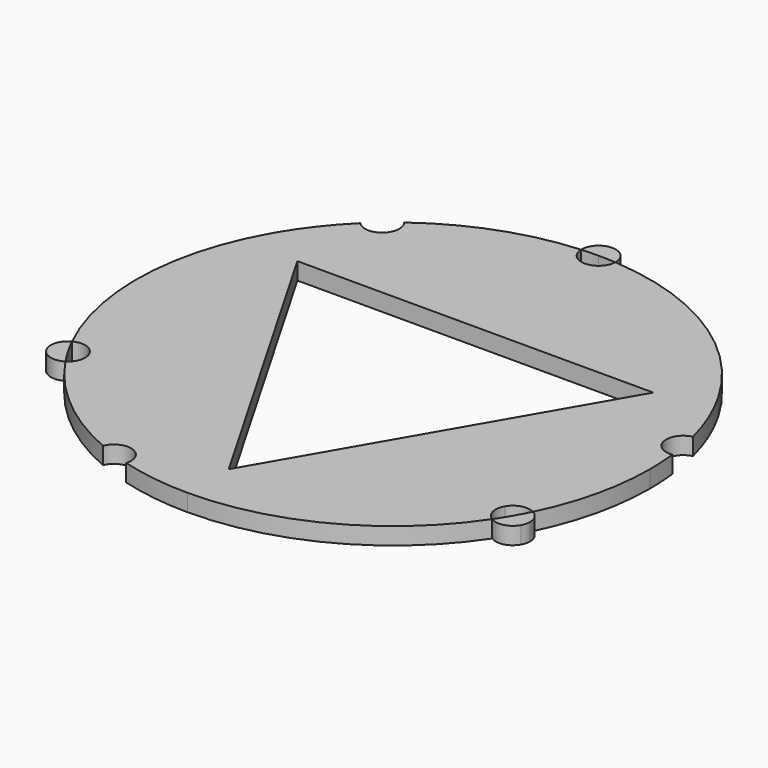
from build123d import *

# Parameters (mm, degrees)
F1_DEPTH = 5
F3_DEPTH = 25


with BuildPart() as f1:
    # F0 (on Top) → F1 (new body)
    with BuildSketch(Plane.XY):
        with BuildLine():
            Line((-60.6217782649, -35), (0, 0))
            Line((0, 0), (0, 70))
            ThreePointArc((0, 70), (-3.4761089358, 71.4060235579), (-4.9972214502, 74.8333333333))
            ThreePointArc((-4.9972214502, 74.8333333333), (-26, 70.3491293478), (-44.8708950659, 60.0966120175))
            ThreePointArc((-44.8708950659, 60.0966120175), (-44.0572130953, 58.6282492814), (-43.7753963478, 56.9733333333))
            ThreePointArc((-43.7753963478, 56.9733333333), (-46.964127278, 52.3129358871), (-52.4631180905, 53.5968398343))
            ThreePointArc((-52.4631180905, 53.5968398343), (-59.2566382592, 45.9744583678), (-64.9519078458, 37.4999955625))
            ThreePointArc((-64.9519078458, 37.4999955625), (-74.9583218382, 2.4999974394), (-67.3061784416, -33.0889459425))
            ThreePointArc((-67.3061784416, -33.0889459425), (-63.5774848522, -32.6926131342), (-60.6217782649, -35))
        make_face()
        with BuildLine():
            ThreePointArc((62.3089569914, -41.7443873909), (60.1013759165, -38.7134104236), (60.6217782649, -35))
            Line((60.6217782649, -35), (0, 0))
            Line((0, 0), (-60.6217782649, -35))
            ThreePointArc((-60.6217782649, -35), (-60.1222761524, -36.2059047745), (-59.9519052838, -37.5))
            ThreePointArc((-59.9519052838, -37.5), (-60.5807074239, -39.9274738452), (-62.3089569914, -41.7443873909))
            ThreePointArc((-62.3089569914, -41.7443873909), (-47.9241331494, -57.6912251723), (-29.6097451556, -68.9076410264))
            ThreePointArc((-29.6097451556, -68.9076410264), (-24.0267634569, -65.8138744531), (-19.952655831, -70.7273989836))
            ThreePointArc((-19.952655831, -70.7273989836), (-20.010998716, -71.4889926791), (-20.1846658138, -72.2328129452))
            ThreePointArc((-20.1846658138, -72.2328129452), (-10.186732339, -74.3049829033), (-1.182e-07, -75))
            ThreePointArc((-1.182e-07, -75), (35.3140973148, -66.1658108908), (62.3089569914, -41.7443873909))
        make_face()
        with BuildLine():
            ThreePointArc((67.3061784416, -33.0889459425), (73.0512264891, -16.9858266928), (75, 0))
            ThreePointArc((75, 0), (74.870047471, 4.4131611905), (74.4806402215, 8.8110290088))
            ThreePointArc((74.4806402215, 8.8110290088), (68.8128487003, 12.8371279402), (72.6477839043, 18.6359731109))
            ThreePointArc((72.6477839043, 18.6359731109), (69.4433694571, 28.3305213232), (64.9519065756, 37.4999977625))
            ThreePointArc((64.9519065756, 37.4999977625), (39.6442254825, 63.6658101802), (4.9972214502, 74.8333333333))
            ThreePointArc((4.9972214502, 74.8333333333), (3.4761089358, 71.4060235579), (0, 70))
            Line((0, 70), (0, 0))
            Line((0, 0), (60.6217782649, -35))
            ThreePointArc((60.6217782649, -35), (63.5774848522, -32.6926131342), (67.3061784416, -33.0889459425))
        make_face()
    extrude(amount=F1_DEPTH)

    # F2 (on face) → F3 (cut)
    with BuildSketch(Plane.XY.offset(5)):
        Polygon((51.9615242271, 30), (-51.9615242271, 30), (0, -60), align=None)
    extrude(amount=-F3_DEPTH, mode=Mode.SUBTRACT)


with BuildPart() as f1b:
    # F0 (on Top) → F1, piece 2 (new body)
    with BuildSketch(Plane.XY):
        with BuildLine():
            ThreePointArc((0, 75), (2.5, 74.9583217528), (4.9972214502, 74.8333333333))
            ThreePointArc((4.9972214502, 74.8333333333), (4.9993053143, 74.916655087), (5, 75))
            ThreePointArc((5, 75), (3.5355339059, 78.5355339059), (0, 80))
            Line((0, 80), (0, 75))
        make_face()
        with BuildLine():
            ThreePointArc((-4.9972214502, 74.8333333333), (-2.5, 74.9583217528), (0, 75))
            Line((0, 75), (0, 80))
            ThreePointArc((0, 80), (-3.5939764421, 78.4761089358), (-4.9972214502, 74.8333333333))
        make_face()
    extrude(amount=F1_DEPTH)


with BuildPart() as f1c:
    # F0 (on Top) → F1, piece 3 (new body)
    with BuildSketch(Plane.XY):
        with BuildLine():
            ThreePointArc((-62.3089569914, -41.7443873909), (-63.665810863, -39.6442243859), (-64.9519052838, -37.5))
            Line((-64.9519052838, -37.5), (-69.2820323028, -40))
            ThreePointArc((-69.2820323028, -40), (-66.1653157075, -42.3505293674), (-62.3089569914, -41.7443873909))
        make_face()
        with BuildLine():
            Line((-69.2820323028, -40), (-64.9519052838, -37.5))
            ThreePointArc((-64.9519052838, -37.5), (-66.165810863, -35.314097367), (-67.3061784416, -33.0889459425))
            ThreePointArc((-67.3061784416, -33.0889459425), (-69.7592921496, -36.1255795684), (-69.2820323028, -40))
        make_face()
    extrude(amount=F1_DEPTH)


with BuildPart() as f1d:
    # F0 (on Top) → F1, piece 4 (new body)
    with BuildSketch(Plane.XY):
        with BuildLine():
            Line((69.2820323028, -40), (64.9519052838, -37.5))
            ThreePointArc((64.9519052838, -37.5), (63.665810863, -39.6442243859), (62.3089569914, -41.7443873909))
            ThreePointArc((62.3089569914, -41.7443873909), (66.1653157075, -42.3505293674), (69.2820323028, -40))
        make_face()
        with BuildLine():
            ThreePointArc((69.9519052838, -37.5), (69.2397582308, -34.9281685309), (67.3061784416, -33.0889459425))
            ThreePointArc((67.3061784416, -33.0889459425), (66.165810863, -35.314097367), (64.9519052838, -37.5))
            Line((64.9519052838, -37.5), (69.2820323028, -40))
            ThreePointArc((69.2820323028, -40), (69.7815344153, -38.7940952255), (69.9519052838, -37.5))
        make_face()
    extrude(amount=F1_DEPTH)


solid = Compound([f1.part, f1b.part, f1c.part, f1d.part])
